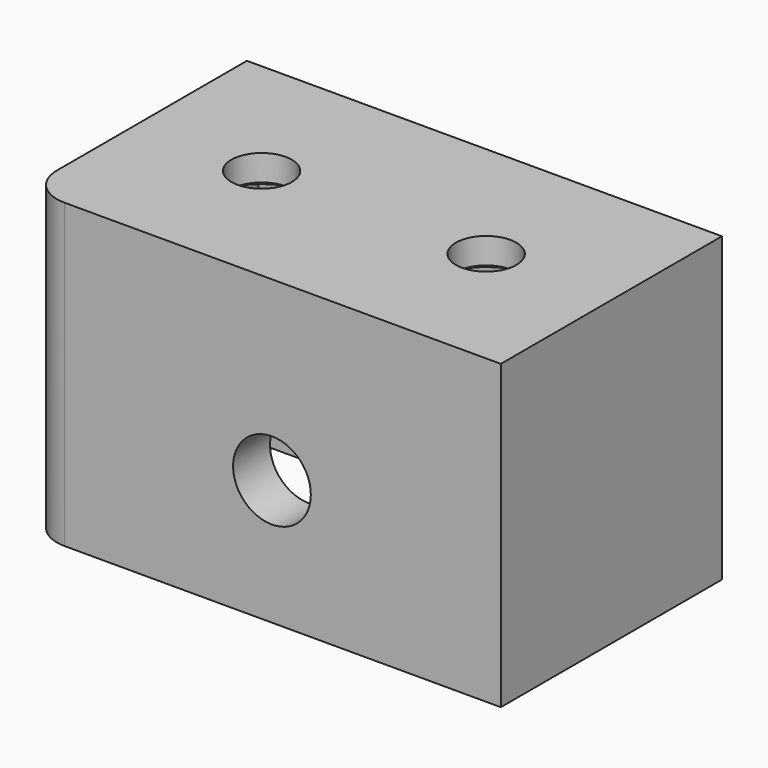
from build123d import *

# Parameters (mm, degrees)
F0_W      = 55
F0_H      = 32
F1_DEPTH  = 35
F2_W      = 43.775738
F2_H      = 21.308826
F3_DEPTH  = 30
F4_R      = 4.5
F5_R      = 4.5
F6_DEPTH  = 10
F7_R      = 3.5
F8_DEPTH  = 3
F9_R      = 7
F10_DEPTH = 2


with BuildPart() as f1:
    # F0 (on Top) → F1 (new body)
    with BuildSketch(Plane.XY):
        Rectangle(F0_W, F0_H)
    extrude(amount=F1_DEPTH)

    # F2 (on Top) → F3 (cut)
    with BuildSketch(Plane.XY):
        Rectangle(F2_W, F2_H)
    extrude(amount=F3_DEPTH, mode=Mode.SUBTRACT)

    # F4
    f4_edges = [f1.edges().sort_by_distance(p)[0] for p in [
        (-27.5, -16, 17.5),
    ]]
    fillet(f4_edges, radius=F4_R)

    # F5 (on face) → F6 (cut)
    with BuildSketch(Plane.XZ.offset(16)):
        with Locations((1, 14.5)):
            Circle(F5_R)
    extrude(amount=-F6_DEPTH, mode=Mode.SUBTRACT)

    # F7 (on face) → F8 (cut)
    with BuildSketch(Plane.XY.offset(35)):
        with Locations((-13, 0)):
            Circle(F7_R)
        with Locations((13, 0)):
            Circle(F7_R)
    extrude(amount=-F8_DEPTH, mode=Mode.SUBTRACT)

    # F9 (on face) → F10 (cut)
    with BuildSketch(Plane(origin=(0, 0, 30), x_dir=(1, 0, 0), z_dir=(0, 0, -1))):
        with Locations((-13, 0)):
            Circle(F9_R)
        with Locations((13, 0)):
            Circle(F9_R)
    extrude(amount=-F10_DEPTH, mode=Mode.SUBTRACT)


solid = f1.part
